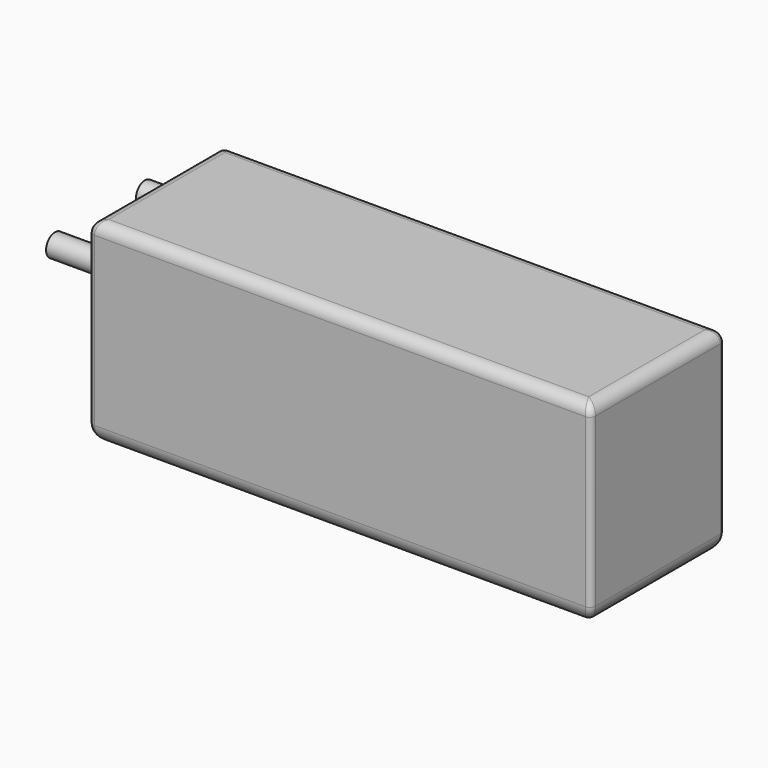
from build123d import *

# Parameters (mm, degrees)
SKETCH_W             = 90
SKETCH_H             = 35
PAD_DEPTH            = 15
SKETCH001_R          = 2
PAD001_DEPTH         = 10
FILLET_R             = 2
FILLET001_R          = 3
FILLET002_R          = 1
BODY_PLACEMENT_ANGLE = 90


with BuildPart() as part:
    # Sketch → Pad (new body, symmetric)
    with BuildSketch(Plane.XY):
        Rectangle(SKETCH_W, SKETCH_H)
    extrude(amount=PAD_DEPTH, both=True)

    # Sketch001 (on Face4 of Pad) → Pad001 (join)
    with BuildSketch(Plane(origin=(-45, 0, 0), x_dir=(0, -1, 0), z_dir=(-1, 0, 0))):
        with Locations((-8.41, 10.070301)):
            Circle(SKETCH001_R)
        with Locations((-8.41, -10.070301)):
            Circle(SKETCH001_R)
    extrude(amount=PAD001_DEPTH)

    # Fillet
    fillet_edges = [part.edges().sort_by_distance(p)[0] for p in [
        (-45, 17.5, 0),
        (45, 17.5, 0),
        (0, 17.5, -15),
        (0, 17.5, 15),
    ]]
    fillet(fillet_edges, radius=FILLET_R)

    # Fillet001
    fillet001_edges = [part.edges().sort_by_distance(p)[0] for p in [
        (45, -17.5, 0),
        (-45, -17.5, 0),
        (0, -17.5, -15),
        (0, -17.5, 15),
    ]]
    fillet(fillet001_edges, radius=FILLET001_R)

    # Fillet002
    fillet002_edges = [part.edges().sort_by_distance(p)[0] for p in [
        (-45, 0.5, -15),
        (-45, 0.5, 15),
        (45, 0.5, 15),
        (45, 0.5, -15),
    ]]
    fillet(fillet002_edges, radius=FILLET002_R)


with BuildPart() as part_1:
    # Body placement: moved
    add(part.part.moved(Location((0, 0, 23))).rotate(Axis((0, 0, 23), (1, 0, 0)), BODY_PLACEMENT_ANGLE))


solid = part_1.part
